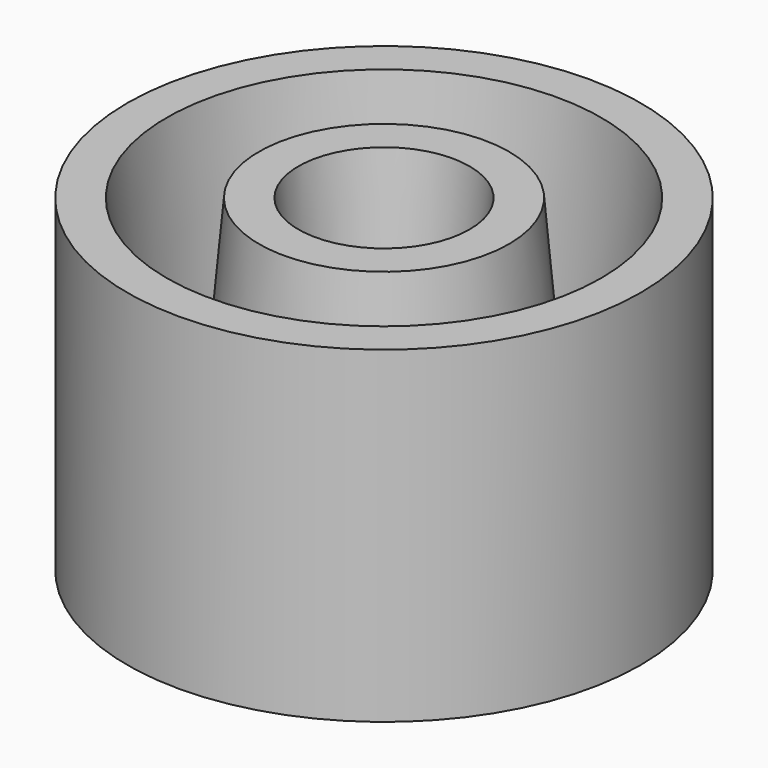
from build123d import *


with BuildPart() as f1:
    # F0 (on Front) → F1 (revolve)
    with BuildSketch(Plane.XZ):
        Polygon((10.3251, 42.712997), (7.14375, 6.35), (7.14375, 3.175), (18.26895, 3.175), (18.26895, 6.35), (15.0876, 42.712997), align=None)
        Polygon((23.03145, 3.175), (30.9753, 3.175), (30.9753, 42.712997), (26.2128, 42.712997), (23.03145, 6.35), align=None)
    revolve(axis=Axis((0, 0, 17.542447), (0, 0, 1)))


solid = f1.part
